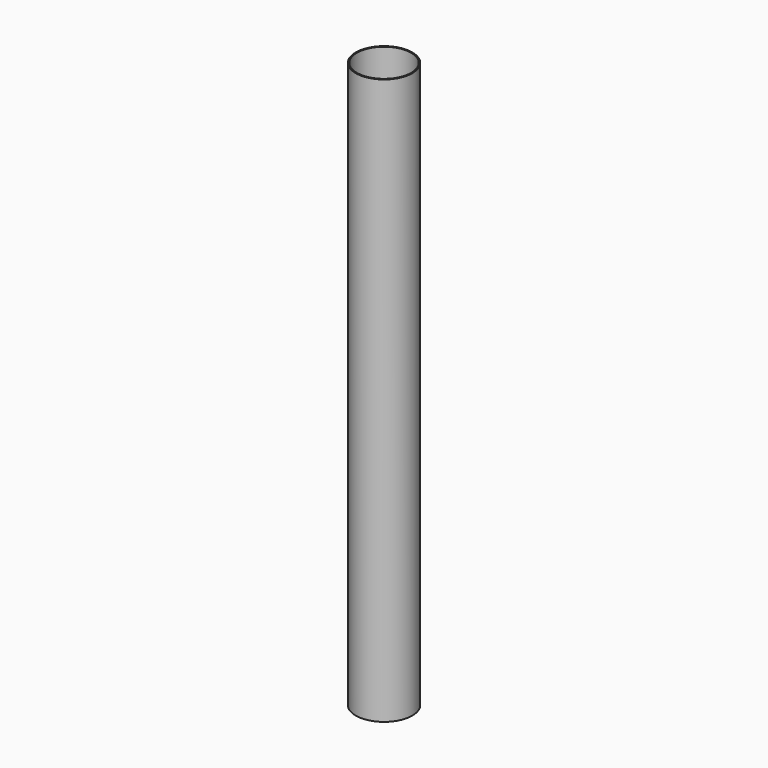
from build123d import *

# Parameters (mm, degrees)
SKETCH_R      = 12.5
SKETCH_R_2    = 12
EXTRUDE_DEPTH = 250


with BuildPart() as part:
    # Sketch → Extrude (new body)
    with BuildSketch(Plane.XY):
        Circle(SKETCH_R)
        Circle(SKETCH_R_2, mode=Mode.SUBTRACT)
    extrude(amount=EXTRUDE_DEPTH)


solid = part.part
